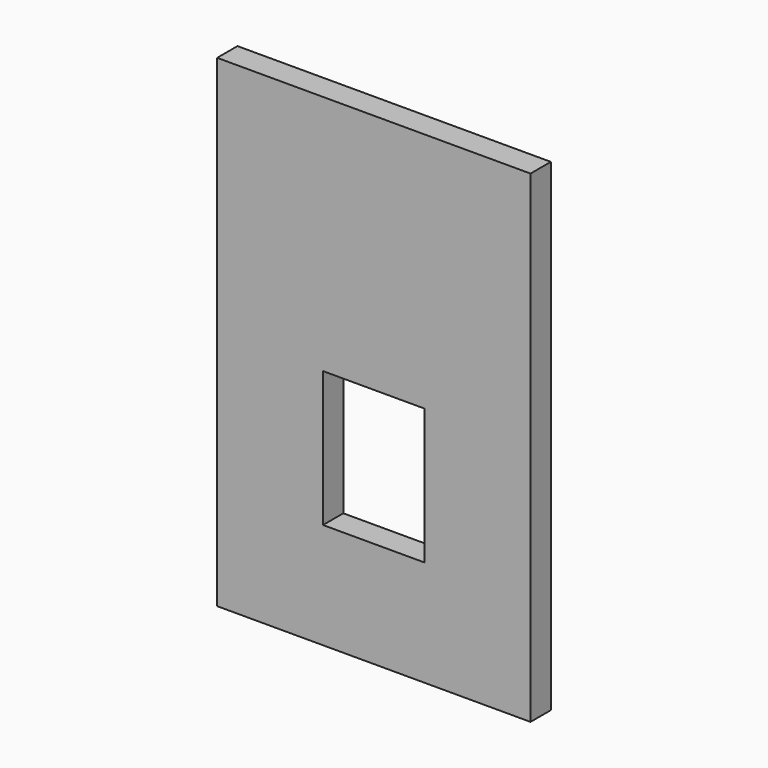
from build123d import *

# Parameters (mm, degrees)
F6_W     = 185
F6_H     = 285
F7_DEPTH = 15
F8_W     = 60
F8_H     = 80
F9_DEPTH = 15


with BuildPart() as f7:
    # F6 (on offset) → F7 (new body, through all)
    with BuildSketch(Plane.XZ.offset(-150)):
        with Locations((0, 150)):
            Rectangle(F6_W, F6_H)
    extrude(amount=F7_DEPTH)

    # F8 (on offset) → F9 (cut, through all)
    with BuildSketch(Plane.XZ.offset(-150)):
        with Locations((0, 110)):
            Rectangle(F8_W, F8_H)
    extrude(amount=F9_DEPTH, mode=Mode.SUBTRACT)


solid = f7.part
